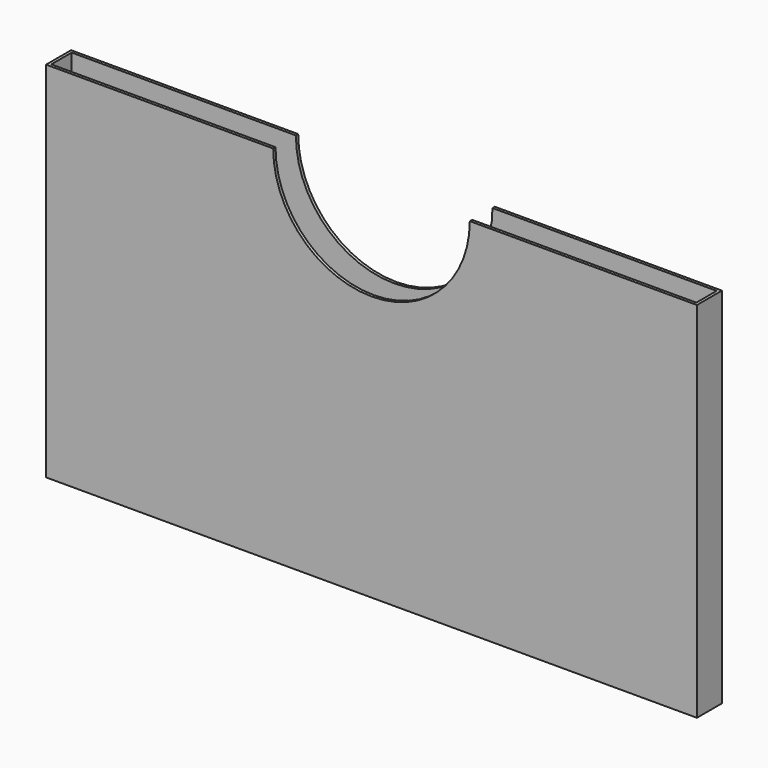
from build123d import *

# Parameters (mm, degrees)
F0_W     = 90.9828
F0_H     = 4.3688
F0_W_2   = 90.17
F0_H_2   = 3.556
F1_DEPTH = 50.8
F3_DEPTH = 4.3698


with BuildPart() as f1:
    # F0 (on Top) → F1 (new body)
    with BuildSketch(Plane.XY):
        Rectangle(F0_W, F0_H)
        Rectangle(F0_W_2, F0_H_2, mode=Mode.SUBTRACT)
    extrude(amount=F1_DEPTH)

    # F2 (on face) → F3 (cut, through all)
    with BuildSketch(Plane.XZ.offset(2.1844)):
        with BuildLine():
            Line((13.7414, 50.8), (-13.7414, 50.8))
            ThreePointArc((-13.7414, 50.8), (0, 37.0586), (13.7414, 50.8))
        make_face()
    extrude(amount=-F3_DEPTH, mode=Mode.SUBTRACT)


solid = f1.part
